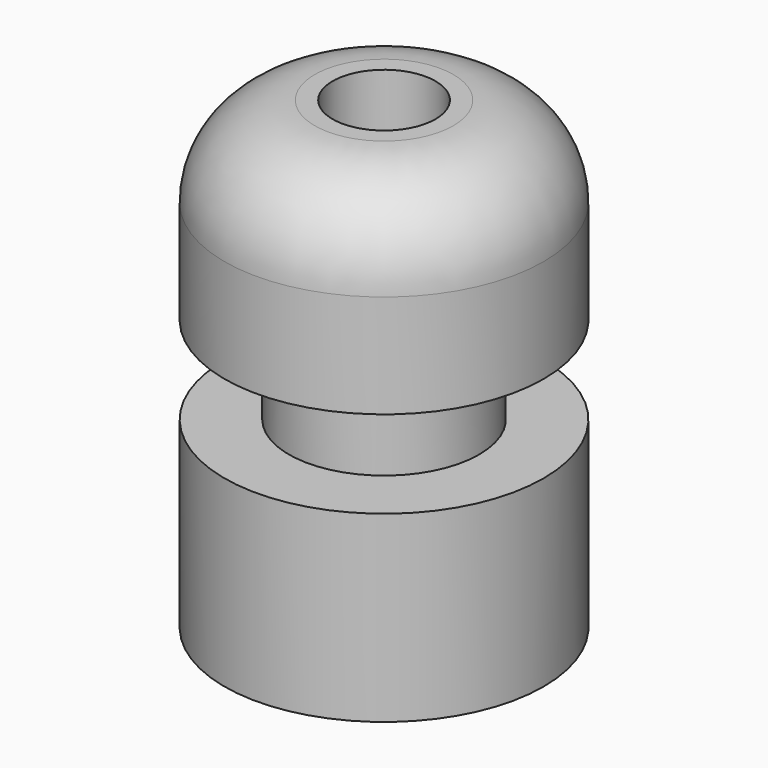
from build123d import *

# Parameters (mm, degrees)
F3_D = 10
F4_R = 10


with BuildPart() as f1:
    # F0 (on Front) → F1 (revolve)
    with BuildSketch(Plane.XZ):
        Polygon((7.1379574947, 42.9636351764), (-4.8425933346, 42.9636351764), (-4.8425933346, 27.8560947627), (-10.5409119278, 27.8560947627), (-10.5409119278, 0), (0, 0), (0, -8.4736431018), (7.1379574947, -8.4736431018), (7.1379574947, 11.8357595056), (0, 11.8357595056), (0, 21.5210486203), (7.1379574947, 21.5210486203), align=None)
    revolve(axis=Axis((-10.5409119278, 0, 16.1306988448), (0, 0, -1)))

    # F3 (through all)
    with Locations(Plane(origin=(0, 0, 0), x_dir=(1, 0, 0), z_dir=(0, 0, -1))):
        with Locations((-10.5409119278, 0)):
            Hole(F3_D / 2)

    # F4
    f4_edges = [f1.edges().sort_by_distance(p)[0] for p in [
        (-28.219781, 0, 42.963635),
    ]]
    fillet(f4_edges, radius=F4_R)


solid = f1.part
